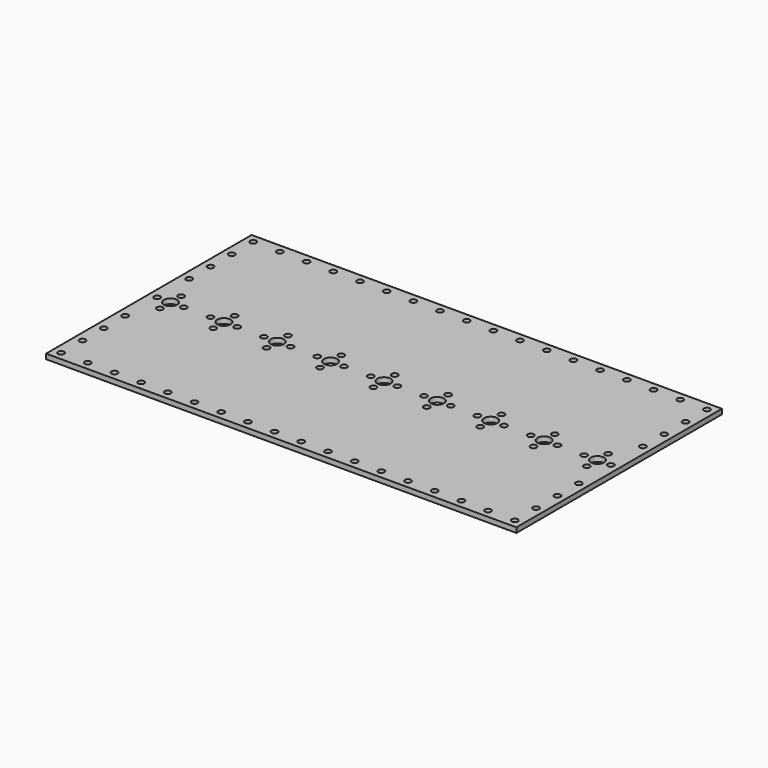
from build123d import *

# Parameters (mm, degrees)
F0_W     = 282
F0_H     = 154
F0_R     = 1.85
F0_R_2   = 4
F1_DEPTH = 3


with BuildPart() as f1:
    # F0 (on Top) → F1 (new body)
    with BuildSketch(Plane.XY):
        Rectangle(F0_W, F0_H)
        with Locations((-136, -72)):
            Circle(F0_R, mode=Mode.SUBTRACT)
        with Locations((-120, -72)):
            Circle(F0_R, mode=Mode.SUBTRACT)
        with Locations((-104, -72)):
            Circle(F0_R, mode=Mode.SUBTRACT)
        with Locations((-88, -72)):
            Circle(F0_R, mode=Mode.SUBTRACT)
        with Locations((-72, -72)):
            Circle(F0_R, mode=Mode.SUBTRACT)
        with Locations((-136, -56)):
            Circle(F0_R, mode=Mode.SUBTRACT)
        with Locations((-136, -40)):
            Circle(F0_R, mode=Mode.SUBTRACT)
        with Locations((-56, -72)):
            Circle(F0_R, mode=Mode.SUBTRACT)
        with Locations((-40, -72)):
            Circle(F0_R, mode=Mode.SUBTRACT)
        with Locations((-24, -72)):
            Circle(F0_R, mode=Mode.SUBTRACT)
        with Locations((-8, -72)):
            Circle(F0_R, mode=Mode.SUBTRACT)
        with Locations((-136, -24)):
            Circle(F0_R, mode=Mode.SUBTRACT)
        with Locations((-128, -8)):
            Circle(F0_R, mode=Mode.SUBTRACT)
        with Locations((-96, -8)):
            Circle(F0_R, mode=Mode.SUBTRACT)
        with Locations((-64, -8)):
            Circle(F0_R, mode=Mode.SUBTRACT)
        with Locations((-32, -8)):
            Circle(F0_R, mode=Mode.SUBTRACT)
        with Locations((8, -72)):
            Circle(F0_R, mode=Mode.SUBTRACT)
        with Locations((24, -72)):
            Circle(F0_R, mode=Mode.SUBTRACT)
        with Locations((40, -72)):
            Circle(F0_R, mode=Mode.SUBTRACT)
        with Locations((56, -72)):
            Circle(F0_R, mode=Mode.SUBTRACT)
        with Locations((72, -72)):
            Circle(F0_R, mode=Mode.SUBTRACT)
        with Locations((88, -72)):
            Circle(F0_R, mode=Mode.SUBTRACT)
        with Locations((104, -72)):
            Circle(F0_R, mode=Mode.SUBTRACT)
        with Locations((120, -72)):
            Circle(F0_R, mode=Mode.SUBTRACT)
        with Locations((136, -72)):
            Circle(F0_R, mode=Mode.SUBTRACT)
        with Locations((136, -56)):
            Circle(F0_R, mode=Mode.SUBTRACT)
        with Locations((136, -40)):
            Circle(F0_R, mode=Mode.SUBTRACT)
        with Locations((0, -8)):
            Circle(F0_R, mode=Mode.SUBTRACT)
        with Locations((32, -8)):
            Circle(F0_R, mode=Mode.SUBTRACT)
        with Locations((64, -8)):
            Circle(F0_R, mode=Mode.SUBTRACT)
        with Locations((136, -24)):
            Circle(F0_R, mode=Mode.SUBTRACT)
        with Locations((96, -8)):
            Circle(F0_R, mode=Mode.SUBTRACT)
        with Locations((128, -8)):
            Circle(F0_R, mode=Mode.SUBTRACT)
        with Locations((-136, 0)):
            Circle(F0_R, mode=Mode.SUBTRACT)
        with Locations((-128, 0)):
            Circle(F0_R_2, mode=Mode.SUBTRACT)
        with Locations((-128, 8)):
            Circle(F0_R, mode=Mode.SUBTRACT)
        with Locations((-120, 0)):
            Circle(F0_R, mode=Mode.SUBTRACT)
        with Locations((-104, 0)):
            Circle(F0_R, mode=Mode.SUBTRACT)
        with Locations((-96, 0)):
            Circle(F0_R_2, mode=Mode.SUBTRACT)
        with Locations((-96, 8)):
            Circle(F0_R, mode=Mode.SUBTRACT)
        with Locations((-88, 0)):
            Circle(F0_R, mode=Mode.SUBTRACT)
        with Locations((-72, 0)):
            Circle(F0_R, mode=Mode.SUBTRACT)
        with Locations((-136, 24)):
            Circle(F0_R, mode=Mode.SUBTRACT)
        with Locations((-64, 0)):
            Circle(F0_R_2, mode=Mode.SUBTRACT)
        with Locations((-56, 0)):
            Circle(F0_R, mode=Mode.SUBTRACT)
        with Locations((-64, 8)):
            Circle(F0_R, mode=Mode.SUBTRACT)
        with Locations((-40, 0)):
            Circle(F0_R, mode=Mode.SUBTRACT)
        with Locations((-32, 0)):
            Circle(F0_R_2, mode=Mode.SUBTRACT)
        with Locations((-24, 0)):
            Circle(F0_R, mode=Mode.SUBTRACT)
        with Locations((-32, 8)):
            Circle(F0_R, mode=Mode.SUBTRACT)
        with Locations((-8, 0)):
            Circle(F0_R, mode=Mode.SUBTRACT)
        with Locations((-136, 40)):
            Circle(F0_R, mode=Mode.SUBTRACT)
        with Locations((-136, 56)):
            Circle(F0_R, mode=Mode.SUBTRACT)
        with Locations((-136, 72)):
            Circle(F0_R, mode=Mode.SUBTRACT)
        with Locations((-120, 72)):
            Circle(F0_R, mode=Mode.SUBTRACT)
        with Locations((-104, 72)):
            Circle(F0_R, mode=Mode.SUBTRACT)
        with Locations((-88, 72)):
            Circle(F0_R, mode=Mode.SUBTRACT)
        with Locations((-72, 72)):
            Circle(F0_R, mode=Mode.SUBTRACT)
        with Locations((-56, 72)):
            Circle(F0_R, mode=Mode.SUBTRACT)
        with Locations((-40, 72)):
            Circle(F0_R, mode=Mode.SUBTRACT)
        with Locations((-24, 72)):
            Circle(F0_R, mode=Mode.SUBTRACT)
        with Locations((-8, 72)):
            Circle(F0_R, mode=Mode.SUBTRACT)
        Circle(F0_R_2, mode=Mode.SUBTRACT)
        with Locations((8, 0)):
            Circle(F0_R, mode=Mode.SUBTRACT)
        with Locations((0, 8)):
            Circle(F0_R, mode=Mode.SUBTRACT)
        with Locations((24, 0)):
            Circle(F0_R, mode=Mode.SUBTRACT)
        with Locations((32, 0)):
            Circle(F0_R_2, mode=Mode.SUBTRACT)
        with Locations((32, 8)):
            Circle(F0_R, mode=Mode.SUBTRACT)
        with Locations((40, 0)):
            Circle(F0_R, mode=Mode.SUBTRACT)
        with Locations((56, 0)):
            Circle(F0_R, mode=Mode.SUBTRACT)
        with Locations((64, 0)):
            Circle(F0_R_2, mode=Mode.SUBTRACT)
        with Locations((64, 8)):
            Circle(F0_R, mode=Mode.SUBTRACT)
        with Locations((72, 0)):
            Circle(F0_R, mode=Mode.SUBTRACT)
        with Locations((88, 0)):
            Circle(F0_R, mode=Mode.SUBTRACT)
        with Locations((96, 0)):
            Circle(F0_R_2, mode=Mode.SUBTRACT)
        with Locations((104, 0)):
            Circle(F0_R, mode=Mode.SUBTRACT)
        with Locations((96, 8)):
            Circle(F0_R, mode=Mode.SUBTRACT)
        with Locations((120, 0)):
            Circle(F0_R, mode=Mode.SUBTRACT)
        with Locations((128, 0)):
            Circle(F0_R_2, mode=Mode.SUBTRACT)
        with Locations((136, 0)):
            Circle(F0_R, mode=Mode.SUBTRACT)
        with Locations((128, 8)):
            Circle(F0_R, mode=Mode.SUBTRACT)
        with Locations((136, 24)):
            Circle(F0_R, mode=Mode.SUBTRACT)
        with Locations((8, 72)):
            Circle(F0_R, mode=Mode.SUBTRACT)
        with Locations((24, 72)):
            Circle(F0_R, mode=Mode.SUBTRACT)
        with Locations((40, 72)):
            Circle(F0_R, mode=Mode.SUBTRACT)
        with Locations((56, 72)):
            Circle(F0_R, mode=Mode.SUBTRACT)
        with Locations((136, 40)):
            Circle(F0_R, mode=Mode.SUBTRACT)
        with Locations((136, 56)):
            Circle(F0_R, mode=Mode.SUBTRACT)
        with Locations((72, 72)):
            Circle(F0_R, mode=Mode.SUBTRACT)
        with Locations((88, 72)):
            Circle(F0_R, mode=Mode.SUBTRACT)
        with Locations((104, 72)):
            Circle(F0_R, mode=Mode.SUBTRACT)
        with Locations((120, 72)):
            Circle(F0_R, mode=Mode.SUBTRACT)
        with Locations((136, 72)):
            Circle(F0_R, mode=Mode.SUBTRACT)
    extrude(amount=F1_DEPTH)


solid = f1.part
